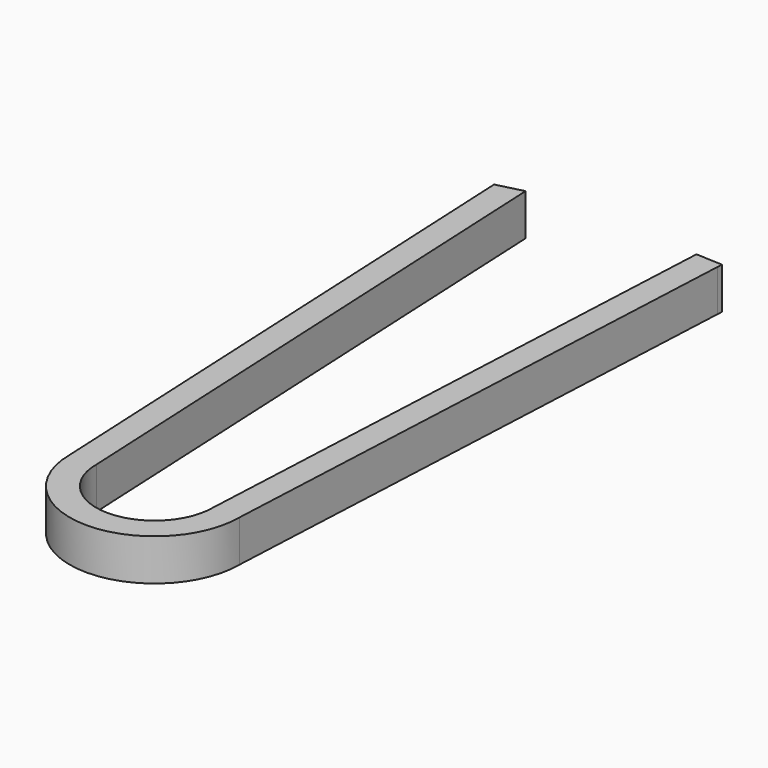
from build123d import *

# Parameters (mm, degrees)
F1_DEPTH = 5.588


with BuildPart() as f1:
    # F0 (on Top) → F1 (new body)
    with BuildSketch(Plane.XY):
        with BuildLine():
            Line((-14.997657, 75.743783), (-11.388115, 0))
            ThreePointArc((-11.388115, 0), (0, -11.388115), (11.388115, 0))
            Line((11.388115, 0), (14.997657, 75.743783))
            Line((14.997657, 75.743783), (15.031717, 76.458491))
            Line((15.031717, 76.458491), (11.479748, 76.627759))
            Line((11.479748, 76.627759), (7.831738, 0.076784))
            ThreePointArc((7.831738, 0.076784), (0, -7.832115), (-7.831738, 0.076784))
            Line((-7.831738, 0.076784), (-11.479748, 76.627759))
            Line((-11.479748, 76.627759), (-14.997657, 75.743783))
        make_face()
    extrude(amount=F1_DEPTH)


solid = f1.part
